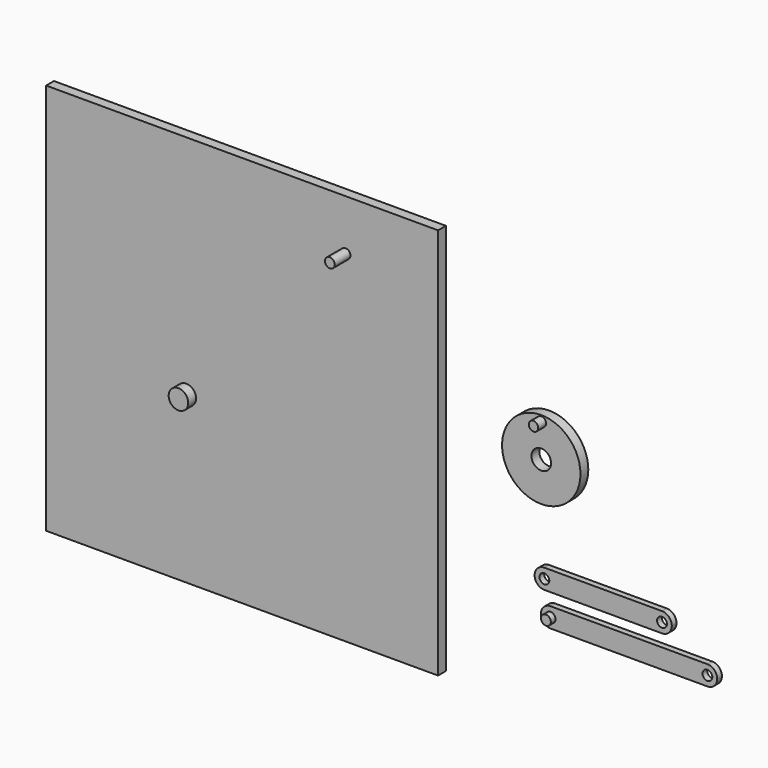
from build123d import *

# Parameters (mm, degrees)
F0_R      = 20
F0_R_2    = 5
F1_DEPTH  = 5
F2_W      = 200
F2_H      = 200
F2_R      = 5
F2_R_2    = 2.5
F3_DEPTH  = 5
F4_DEPTH  = 10
F5_R      = 2.416373
F6_DEPTH  = 5
F7_R      = 2.5
F9_DEPTH  = 3
F8_R      = 2.5
F10_DEPTH = 3
F11_DEPTH = 6
F12_DEPTH = 15


with BuildPart() as f1:
    # F0 (on Front) → F1 (new body)
    with BuildSketch(Plane.XZ):
        Circle(F0_R)
        Circle(F0_R_2, mode=Mode.SUBTRACT)
    extrude(amount=F1_DEPTH)

    # F5 (on face) → F6 (join)
    with BuildSketch(Plane.XZ.offset(5)):
        with Locations((0.051965, 17.022764)):
            Circle(F5_R)
    extrude(amount=F6_DEPTH)


with BuildPart() as f3:
    # F2 (on Front) → F3 (new body)
    with BuildSketch(Plane.XZ):
        with Locations((-152.659772, -14.162371)):
            Rectangle(F2_W, F2_H)
        with Locations((-181.120619, -29.79908)):
            Circle(F2_R, mode=Mode.SUBTRACT)
        with Locations((-99.861644, 59.971109)):
            Circle(F2_R_2, mode=Mode.SUBTRACT)
    extrude(amount=F3_DEPTH)

    # F2 (on Front) → F4 (join)
    with BuildSketch(Plane.XZ):
        with Locations((-181.120619, -29.79908)):
            Circle(F2_R)
    extrude(amount=F4_DEPTH)

    # F2 (on Front) → F12 (join)
    with BuildSketch(Plane.XZ):
        with Locations((-99.861644, 59.971109)):
            Circle(F2_R_2)
    extrude(amount=F12_DEPTH)


with BuildPart() as f9:
    # F7 (on Front) → F9 (new body)
    with BuildSketch(Plane.XZ):
        with BuildLine():
            Line((60, -49.374602), (0, -49.374602))
            ThreePointArc((0, -49.374602), (-3.535534, -50.839068), (-5, -54.374602))
            ThreePointArc((-5, -54.374602), (-3.535534, -57.910136), (0, -59.374602))
            Line((0, -59.374602), (60, -59.374602))
            ThreePointArc((60, -59.374602), (63.535534, -57.910136), (65, -54.374602))
            ThreePointArc((65, -54.374602), (63.535534, -50.839068), (60, -49.374602))
        make_face()
        with Locations((0, -54.374602)):
            Circle(F7_R, mode=Mode.SUBTRACT)
        with Locations((60, -54.374602)):
            Circle(F7_R, mode=Mode.SUBTRACT)
    extrude(amount=F9_DEPTH)


with BuildPart() as f10:
    # F8 (on Front) → F10 (new body)
    with BuildSketch(Plane.XZ):
        with BuildLine():
            Line((83.177605, -65.680205), (3.177605, -65.680205))
            ThreePointArc((3.177605, -65.680205), (-0.357929, -67.144671), (-1.822395, -70.680205))
            ThreePointArc((-1.822395, -70.680205), (-0.357929, -74.215739), (3.177605, -75.680205))
            Line((3.177605, -75.680205), (83.177605, -75.680205))
            ThreePointArc((83.177605, -75.680205), (86.713139, -74.215739), (88.177605, -70.680205))
            ThreePointArc((88.177605, -70.680205), (86.713139, -67.144671), (83.177605, -65.680205))
        make_face()
        with Locations((3.177605, -70.680205)):
            Circle(F8_R, mode=Mode.SUBTRACT)
        with Locations((83.177605, -70.680205)):
            Circle(F8_R, mode=Mode.SUBTRACT)
    extrude(amount=F10_DEPTH)

    # F8 (on Front) → F11 (join)
    with BuildSketch(Plane.XZ):
        with Locations((3.177605, -70.680205)):
            Circle(F8_R)
    extrude(amount=F11_DEPTH)


solid = Compound([f1.part, f3.part, f9.part, f10.part])
